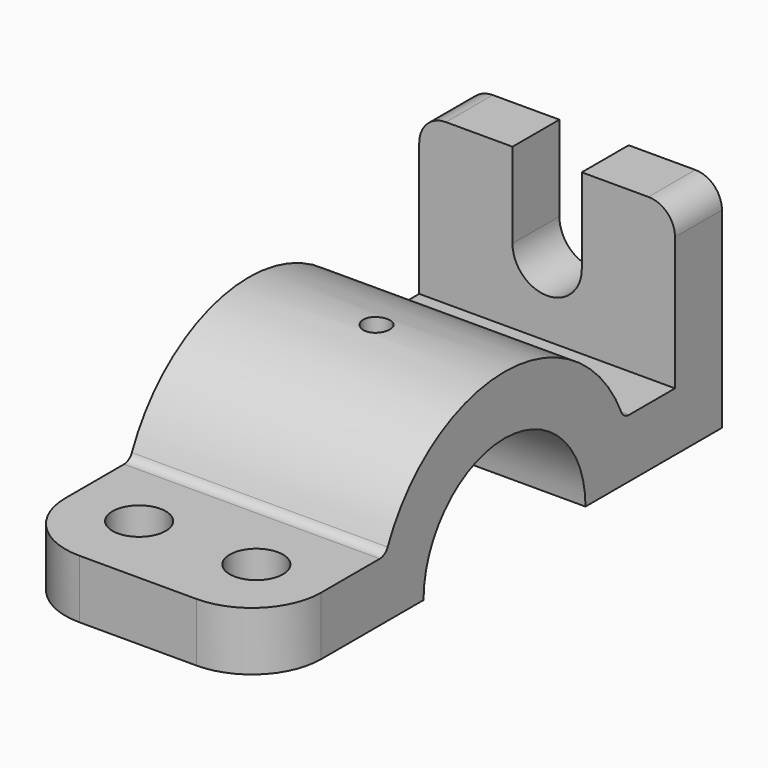
from build123d import *

# Parameters (mm, degrees)
F0_W     = 11
F0_H     = 30
F1_DEPTH = 24
F3_DEPTH = 11
F4_R     = 5
F4_R_2   = 2.5
F5_DEPTH = 41.001
F6_R     = 13
F7_R     = 5
F8_R     = 2


with BuildPart() as f1:
    # F0 (on Right) → F1 (new body, symmetric)
    with BuildSketch(Plane.YZ):
        with BuildLine():
            Line((-56, 0), (-30, 0))
            ThreePointArc((-30, 0), (-29.4730143031, 5.5983415304), (-27.9105714739, 11))
            Line((-27.9105714739, 11), (-56, 11))
            Line((-56, 11), (-56, 0))
        make_face()
        with Locations((45.5, 26)):
            Rectangle(F0_W, F0_H)
        with BuildLine():
            ThreePointArc((27.9105714739, 11), (29.4730143031, 5.5983415304), (30, 0))
            Line((30, 0), (51, 0))
            Line((51, 0), (51, 11))
            Line((51, 11), (40, 11))
            Line((40, 11), (27.9105714739, 11))
        make_face()
        with BuildLine():
            ThreePointArc((-15.4919333848, 11), (0, 19), (15.4919333848, 11))
            Line((15.4919333848, 11), (27.9105714739, 11))
            ThreePointArc((27.9105714739, 11), (0, 30), (-27.9105714739, 11))
            Line((-27.9105714739, 11), (-15.4919333848, 11))
        make_face()
        with BuildLine():
            ThreePointArc((15.4919333848, 11), (18.1017503893, 5.7729223833), (19, 0))
            Line((19, 0), (30, 0))
            ThreePointArc((30, 0), (29.4730143031, 5.5983415304), (27.9105714739, 11))
            Line((27.9105714739, 11), (15.4919333848, 11))
        make_face()
        with BuildLine():
            Line((-30, 0), (-19, 0))
            ThreePointArc((-19, 0), (-18.1017503893, 5.7729223833), (-15.4919333848, 11))
            Line((-15.4919333848, 11), (-27.9105714739, 11))
            ThreePointArc((-27.9105714739, 11), (-29.4730143031, 5.5983415304), (-30, 0))
        make_face()
    extrude(amount=F1_DEPTH, both=True)

    # F2 (on face) → F3 (cut, through all)
    with BuildSketch(Plane(origin=(0, 51, 0), x_dir=(-1, 0, 0), z_dir=(0, 1, 0))):
        with BuildLine():
            ThreePointArc((-6.5, 25), (0, 31.5), (6.5, 25))
            Line((6.5, 25), (6.5, 41))
            Line((6.5, 41), (-6.5, 41))
            Line((-6.5, 41), (-6.5, 25))
        make_face()
        with BuildLine():
            ThreePointArc((-6.5, 25), (0, 18.5), (6.5, 25))
            ThreePointArc((6.5, 25), (0, 31.5), (-6.5, 25))
        make_face()
    extrude(amount=-F3_DEPTH, mode=Mode.SUBTRACT)

    # F4 (on Top) → F5 (cut, through all)
    with BuildSketch(Plane.XY):
        with Locations((11, -41.955285737)):
            Circle(F4_R)
        with Locations((-11, -41.955285737)):
            Circle(F4_R)
        Circle(F4_R_2)
    extrude(amount=F5_DEPTH, mode=Mode.SUBTRACT)

    # F6
    f6_edges = [f1.edges().sort_by_distance(p)[0] for p in [
        (-24, -56, 5.5),
        (24, -56, 5.5),
    ]]
    fillet(f6_edges, radius=F6_R)

    # F7
    f7_edges = [f1.edges().sort_by_distance(p)[0] for p in [
        (-24, 45.5, 41),
        (24, 45.5, 41),
    ]]
    fillet(f7_edges, radius=F7_R)

    # F8
    f8_edges = [f1.edges().sort_by_distance(p)[0] for p in [
        (0, -27.910571, 11),
        (0, 27.910571, 11),
    ]]
    fillet(f8_edges, radius=F8_R)


solid = f1.part
